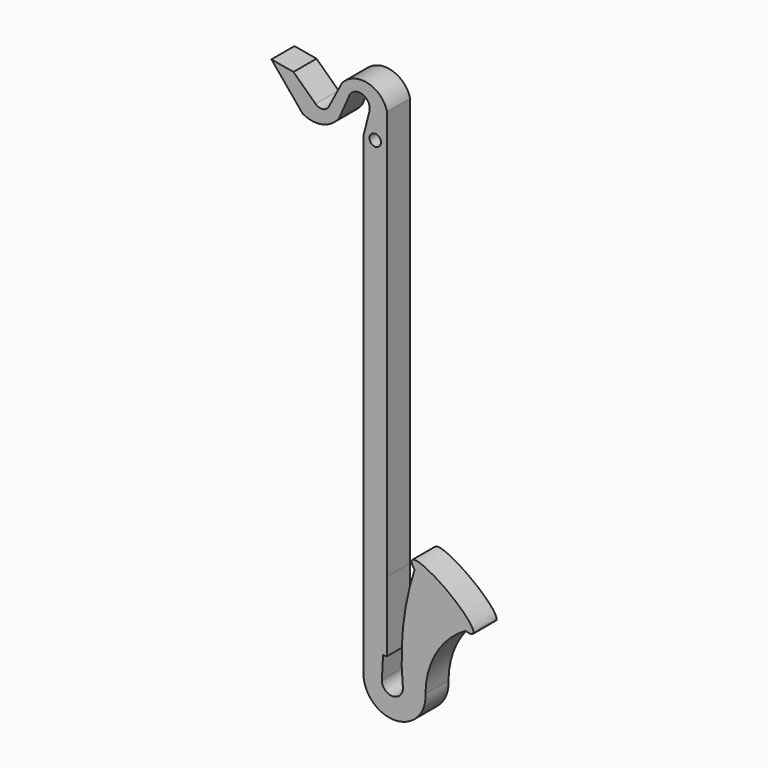
from build123d import *

# Parameters (mm, degrees)
F1_DEPTH = 6.35


with BuildPart() as f1:
    # F0 (on Front) → F1 (new body)
    with BuildSketch(Plane.XZ):
        with BuildLine():
            add(Edge.make_bspline(
                [(19.70388, -35.244793), (21.082963, -35.68799), (21.408843, -35.244793)],
                knots=[5.702342, 5.702342, 5.702342, 6.283185, 6.283185, 6.283185], degree=2, weights=[1, 0.958123, 1]))
            add(Edge.make_bspline(
                [(21.408843, -35.244793), (22.889381, -33.23126), (13.700206, -27.394908), (4.51103, -21.558557), (8.483238, -27.03531)],
                knots=[0, 0, 0, 1.872025, 1.872025, 3.74405, 3.74405, 3.74405], degree=2, weights=[1, 0.593003, 1, 0.593003, 1]))
            add(Edge.make_bspline(
                [(8.483238, -27.03531), (12.836846, -33.037926), (19.70388, -35.244793)],
                knots=[3.74405, 3.74405, 3.74405, 5.702342, 5.702342, 5.702342], degree=2, weights=[1, 0.557732, 1]))
        make_face()
        with BuildLine():
            add(Edge.make_bspline(
                [(8.483238, -27.03531), (12.836846, -33.037926), (19.70388, -35.244793)],
                knots=[3.74405, 3.74405, 3.74405, 5.702342, 5.702342, 5.702342], degree=2, weights=[1, 0.557732, 1]))
            ThreePointArc((8.483238, -27.03531), (5.961038, -38.774792), (5.909106, -50.78205))
            ThreePointArc((5.909106, -50.78205), (3.605804, -53.169076), (1.270367, -50.813482))
            Line((1.270367, -50.813482), (1.529406, -45.840777))
            Line((1.529406, -45.840777), (2.373331, -45.840777))
            Line((2.373331, -45.840777), (2.413637, -30.305893))
            Line((2.413637, -30.305893), (2.413637, 53.580318))
            Line((2.413637, 53.580318), (1.078173, 53.580318))
            ThreePointArc((1.078173, 53.580318), (-0.196726, 52.305418), (-1.471626, 53.580318))
            Line((-1.471626, 53.580318), (-2.807089, 53.580318))
            Line((-2.807089, 53.580318), (-2.807089, 0))
            Line((-2.807089, 0), (-2.807089, -50.517433))
            ThreePointArc((-2.807089, -50.517433), (4.141661, -57.67322), (10.890122, -50.328244))
            ThreePointArc((10.890122, -50.328244), (13.272552, -41.603566), (19.70388, -35.244793))
        make_face()
        with BuildLine():
            Line((-1.490011, 58.729682), (-2.807089, 53.580318))
            Line((-2.807089, 53.580318), (-1.471626, 53.580318))
            ThreePointArc((-1.471626, 53.580318), (-0.196726, 54.855217), (1.078173, 53.580318))
            Line((1.078173, 53.580318), (2.413637, 53.580318))
            Line((2.413637, 53.580318), (2.413637, 60.018133))
            ThreePointArc((2.413637, 60.018133), (-1.864794, 64.15004), (-7.527756, 62.331114))
            Line((-7.527756, 62.331114), (-10.403354, 56.82997))
            ThreePointArc((-10.403354, 56.82997), (-11.769607, 55.853188), (-13.365839, 56.375489))
            Line((-13.365839, 56.375489), (-18.233759, 60.978491))
            Line((-18.233759, 60.978491), (-23.101682, 61.839484))
            Line((-23.101682, 61.839484), (-16.213737, 53.52759))
            ThreePointArc((-16.213737, 53.52759), (-11.833793, 52.865189), (-8.152885, 55.329658))
            Line((-8.152885, 55.329658), (-6.162923, 59.814464))
            ThreePointArc((-6.162923, 59.814464), (-3.271841, 61.661231), (-1.490011, 58.729682))
        make_face()
    extrude(amount=F1_DEPTH)


solid = f1.part
